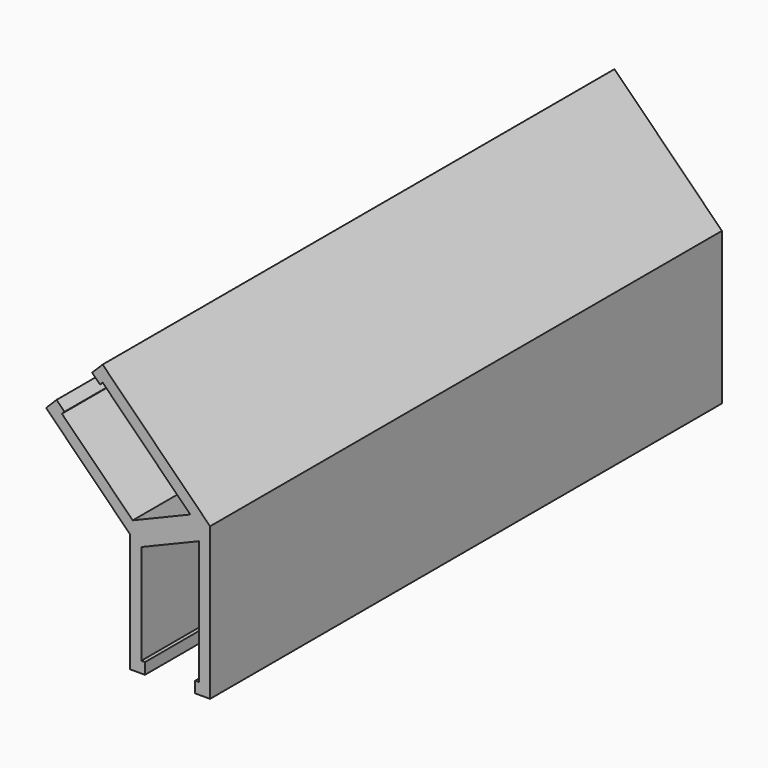
from build123d import *

# Parameters (mm, degrees)
F1_DEPTH = 101.6


with BuildPart() as f1:
    # F0 (on Front) → F1 (new body)
    with BuildSketch(Plane.XZ):
        Polygon((-2.3622, 0), (0, 0), (0, 24.13), (-17.062487, 41.192487), (-18.732814, 39.522159), (-17.475578, 38.264923), (-17.062487, 38.678015), (-3.138822, 24.754351), (-12.282822, 20.966782), (-23.528271, 32.212231), (-23.115179, 32.625322), (-24.372415, 33.882558), (-26.042743, 32.212231), (-12.7, 18.869488), (-12.7, 0), (-10.3378, 0), (-10.3378, 1.778), (-10.922, 1.778), (-10.922, 17.681466), (-1.778, 21.469035), (-1.778, 1.778), (-2.3622, 1.778), align=None)
    extrude(amount=F1_DEPTH)


solid = f1.part
